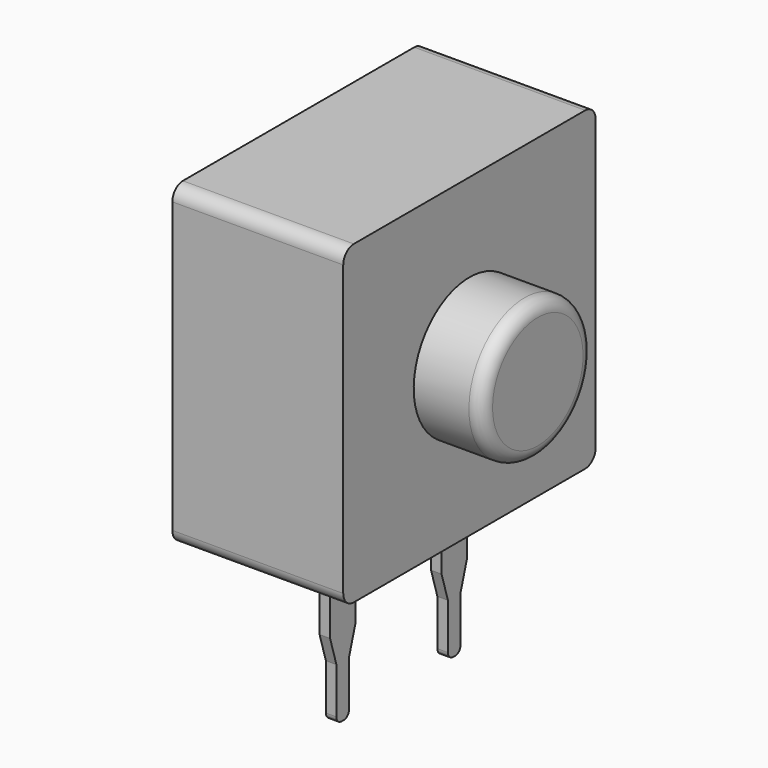
from build123d import *

# Parameters (mm, degrees)
CYLINDER_R           = 2.65
CYLINDER_DEPTH       = 2.6
CYLINDER_PITCH_ANGLE = 90
FILLET001_R          = 0.5
PAD001_DEPTH         = 0.4
FILLET002_R          = 0.25
SKETCH_W             = 12
SKETCH_H             = 12
PAD_DEPTH            = 6.5
FILLET_R             = 0.5


with BuildPart() as fillet001:
    # Cylinder → Cylinder (new body)
    with BuildSketch(Plane.XY):
        Circle(CYLINDER_R)
    extrude(amount=CYLINDER_DEPTH)


with BuildPart() as fillet001_1:
    # Cylinder pitch: moved
    add(fillet001.part.rotate(Axis((0, 0, 0), (0, 1, 0)), CYLINDER_PITCH_ANGLE))


with BuildPart() as fillet001_2:
    # Cylinder placement: moved
    add(fillet001_1.part.moved(Location((6.5, 0, 0))))

    # Fillet001
    fillet001_edges = [fillet001_2.edges().sort_by_distance(p)[0] for p in [
        (9.1, 0, 2.65),
    ]]
    fillet(fillet001_edges, radius=FILLET001_R)


with BuildPart() as fillet002:
    # Sketch001 → Pad001 (new body)
    with BuildSketch(Plane.YZ.offset(3.4)):
        Polygon((-3.25, -6), (-2.05, -6), (-2.05, -9), (-2.35, -10), (-2.35, -12), (-2.95, -12), (-2.95, -10), (-3.25, -9), align=None)
        Polygon((2.05, -6), (3.25, -6), (3.25, -9), (2.95, -10), (2.95, -12), (2.35, -12), (2.35, -10), (2.05, -9), align=None)
    extrude(amount=PAD001_DEPTH)

    # Fillet002
    fillet002_edges = [fillet002.edges().sort_by_distance(p)[0] for p in [
        (3.6, 2.95, -12),
        (3.6, 2.35, -12),
        (3.6, -2.35, -12),
        (3.6, -2.95, -12),
    ]]
    fillet(fillet002_edges, radius=FILLET002_R)


with BuildPart() as fusion:
    # Sketch → Pad (new body)
    with BuildSketch(Plane.YZ):
        Rectangle(SKETCH_W, SKETCH_H)
    extrude(amount=PAD_DEPTH)

    # Fillet
    fillet_edges = [fusion.edges().sort_by_distance(p)[0] for p in [
        (3.25, 6, 6),
        (3.25, -6, 6),
        (3.25, -6, -6),
        (3.25, 6, -6),
    ]]
    fillet(fillet_edges, radius=FILLET_R)

    # Fusion: union Fillet001, Fillet002
    add(fillet001_2.part)
    add(fillet002.part)


solid = fusion.part
